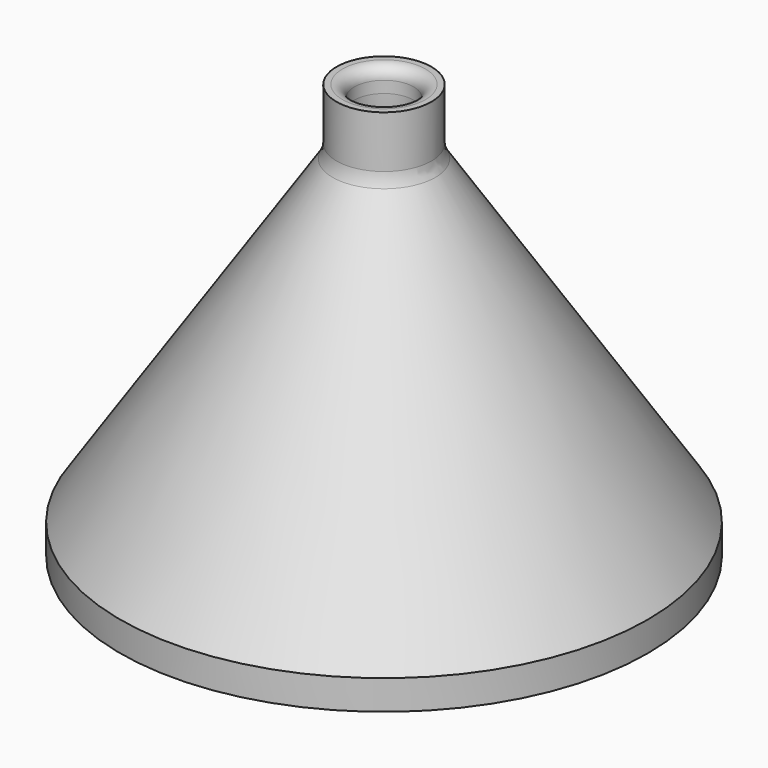
from build123d import *

# Parameters (mm, degrees)
F3_R = 5.08
F4_R = 25.4
F5_R = 2.54


with BuildPart() as f2:
    # F0 (on Front) → F2 (revolve)
    with BuildSketch(Plane.XZ):
        Polygon((52.705, 6.35), (52.705, 0), (56.515, 0), (56.515, 6.35), (10.16, 76.2), (10.16, 88.9), (6.35, 88.9), (6.35, 76.2), align=None)
    revolve(axis=Axis((0, 0, 41.439734), (0, 0, -1)))

    # F3
    f3_edges = [f2.edges().sort_by_distance(p)[0] for p in [
        (-10.16, 0, 76.2),
    ]]
    fillet(f3_edges, radius=F3_R)

    # F4
    f4_edges = [f2.edges().sort_by_distance(p)[0] for p in [
        (-6.35, 0, 76.2),
    ]]
    fillet(f4_edges, radius=F4_R)

    # F5
    f5_edges = [f2.edges().sort_by_distance(p)[0] for p in [
        (-6.35, 0, 88.9),
    ]]
    fillet(f5_edges, radius=F5_R)


solid = f2.part
